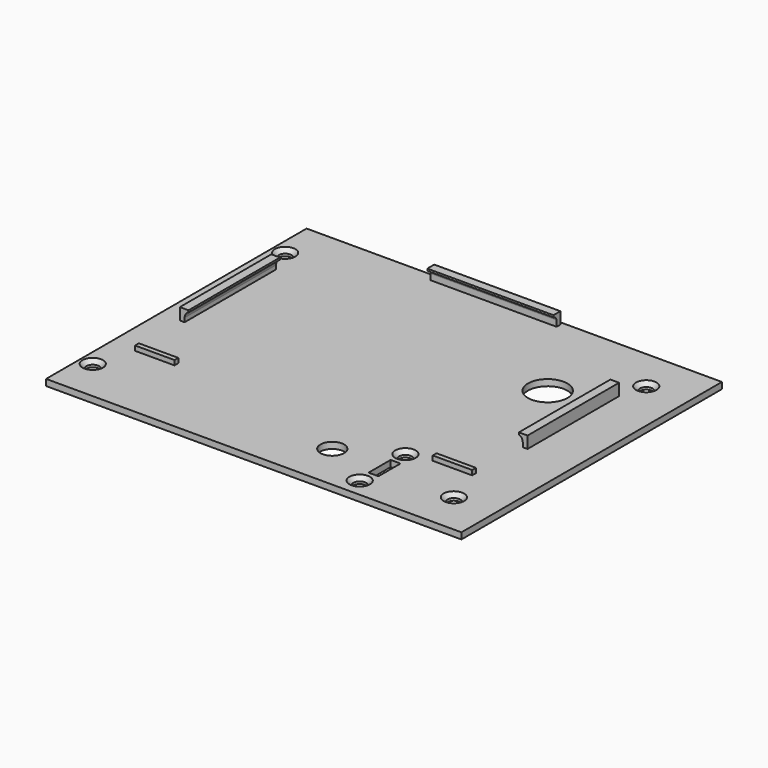
from build123d import *

# Parameters (mm, degrees)
F0_W      = 105.35
F0_H      = 82.6
F0_R      = 1.6
F3_DEPTH  = 1.6
F1_R      = 5
F4_DEPTH  = 1.601
F2_R      = 1.6
F2_R_2    = 3
F2_W      = 2.5
F2_H      = 7
F5_DEPTH  = 1.601
F7_START  = -36.1
F7_DEPTH  = 29
F9_START  = 33
F9_DEPTH  = 32
F1_W      = 10
F1_H      = 1.2
F10_DEPTH = 1.2
F11_SIZE  = 1


with BuildPart() as f3:
    # F0 (on Top) → F3 (new body)
    with BuildSketch(Plane.XY):
        with Locations((52.675, 41.3)):
            Rectangle(F0_W, F0_H)
        with Locations((3.2, 10.8)):
            Circle(F0_R, mode=Mode.SUBTRACT)
        with Locations((94.8, 10.8)):
            Circle(F0_R, mode=Mode.SUBTRACT)
        with Locations((3.2, 71.8)):
            Circle(F0_R, mode=Mode.SUBTRACT)
        with Locations((94.8, 71.8)):
            Circle(F0_R, mode=Mode.SUBTRACT)
    extrude(amount=-F3_DEPTH)

    # F1 (on face) → F4 (cut, through all)
    with BuildSketch(Plane.XY):
        with Locations((80.75, 58.1)):
            Circle(F1_R)
    extrude(amount=-F4_DEPTH, mode=Mode.SUBTRACT)

    # F2 (on face) → F5 (cut, through all)
    with BuildSketch(Plane.XY):
        with Locations((75.75, 4.75)):
            Circle(F2_R)
        with Locations((63, 12)):
            Circle(F2_R_2)
        with Locations((76.25, 12)):
            Rectangle(F2_W, F2_H)
        with Locations((75.75, 19.25)):
            Circle(F2_R)
    extrude(amount=-F5_DEPTH, mode=Mode.SUBTRACT)

    # F6 (on Front) → F7 (join)
    with BuildSketch(Plane.XZ.offset(F7_START)):
        with BuildLine():
            add(Edge.make_bspline(
                [(6.25, 0.9831411553), (6.1998556443, 0.4976120788), (6.25, 0.0696883488), (6.25, 0)],
                knots=[1.5113210061, 1.5113210061, 1.5113210061, 1.5113210061, 2.6925824036, 2.6925824036, 2.6925824036, 2.6925824036], degree=3))
            Line((6.25, 0), (6.25, 0.9831411553))
        make_face()
        with BuildLine():
            Line((5.05, 0), (6.25, 0))
            add(Edge.make_bspline(
                [(6.25, 0.9831411553), (6.1998556443, 0.4976120788), (6.25, 0.0696883488), (6.25, 0)],
                knots=[1.5113210061, 1.5113210061, 1.5113210061, 1.5113210061, 2.6925824036, 2.6925824036, 2.6925824036, 2.6925824036], degree=3))
            Line((6.25, 0.9831411553), (6.25, 3))
            Line((6.25, 3), (5.05, 3))
            Line((5.05, 3), (5.05, 0))
        make_face()
        with BuildLine():
            Line((6.25, 3), (6.25, 0.9831411553))
            add(Edge.make_bspline(
                [(7.25, 2.5), (6.5424729796, 2.3198194624), (6.3141553328, 1.6043332928), (6.25, 0.9831411553)],
                knots=[0, 0, 0, 0, 1.5113210061, 1.5113210061, 1.5113210061, 1.5113210061], degree=3))
            Line((7.25, 2.5), (7.25, 3))
            Line((7.25, 3), (6.25, 3))
        make_face()
        with BuildLine():
            Line((92.05, 0.9831411553), (92.05, 3))
            Line((92.05, 3), (91.05, 3))
            Line((91.05, 3), (91.05, 2.5))
            add(Edge.make_bspline(
                [(91.05, 2.5), (91.7575270204, 2.3198194624), (91.9858446672, 1.6043332928), (92.05, 0.9831411553)],
                knots=[0, 0, 0, 0, 1.5113210061, 1.5113210061, 1.5113210061, 1.5113210061], degree=3))
        make_face()
        with BuildLine():
            Line((93.25, 3), (92.05, 3))
            Line((92.05, 3), (92.05, 0.9831411553))
            add(Edge.make_bspline(
                [(92.05, 0.9831411553), (92.1001443557, 0.4976120788), (92.05, 0.0696883488), (92.05, 0)],
                knots=[1.5113210061, 1.5113210061, 1.5113210061, 1.5113210061, 2.6925824036, 2.6925824036, 2.6925824036, 2.6925824036], degree=3))
            Line((92.05, 0), (93.25, 0))
            Line((93.25, 0), (93.25, 3))
        make_face()
        with BuildLine():
            add(Edge.make_bspline(
                [(92.05, 0.9831411553), (92.1001443557, 0.4976120788), (92.05, 0.0696883488), (92.05, 0)],
                knots=[1.5113210061, 1.5113210061, 1.5113210061, 1.5113210061, 2.6925824036, 2.6925824036, 2.6925824036, 2.6925824036], degree=3))
            Line((92.05, 0.9831411553), (92.05, 0))
        make_face()
    extrude(amount=-F7_DEPTH)

    # F8 (on Right) → F9 (join)
    with BuildSketch(Plane.YZ.offset(F9_START)):
        with BuildLine():
            add(Edge.make_bspline(
                [(80.6190222502, 1.5), (80.7199138112, 0.9911874772), (80.6190222502, 0.2993458475), (80.6190222502, 0)],
                knots=[0.4926390921, 0.4926390921, 0.4926390921, 0.4926390921, 1, 1, 1, 1], degree=3))
            Line((80.6190222502, 0), (81.8190222502, 0))
            Line((81.8190222502, 0), (81.8190222502, 3))
            Line((81.8190222502, 3), (80.6190222502, 3))
            Line((80.6190222502, 3), (80.6190222502, 1.5))
        make_face()
        with BuildLine():
            Line((80.6190222502, 1.5), (80.6190222502, 0))
            add(Edge.make_bspline(
                [(80.6190222502, 1.5), (80.7199138112, 0.9911874772), (80.6190222502, 0.2993458475), (80.6190222502, 0)],
                knots=[0.4926390921, 0.4926390921, 0.4926390921, 0.4926390921, 1, 1, 1, 1], degree=3))
        make_face()
        with BuildLine():
            add(Edge.make_bspline(
                [(79.6190222502, 2.5), (80.2328512073, 2.3155356757), (80.5210582047, 1.9940485863), (80.6190222502, 1.5)],
                knots=[0, 0, 0, 0, 0.4926390921, 0.4926390921, 0.4926390921, 0.4926390921], degree=3))
            Line((80.6190222502, 1.5), (80.6190222502, 3))
            Line((80.6190222502, 3), (79.6190222502, 3))
            Line((79.6190222502, 3), (79.6190222502, 2.5))
        make_face()
    extrude(amount=F9_DEPTH)

    # F1 (on face) → F10 (join)
    with BuildSketch(Plane.XY):
        with Locations((11.25, 21)):
            Rectangle(F1_W, F1_H)
        with Locations((86.75, 21)):
            Rectangle(F1_W, F1_H)
    extrude(amount=F10_DEPTH)

    # F11
    f11_edges = [f3.edges().sort_by_distance(p)[0] for p in [
        (1.6, 71.8, 0),
        (93.2, 71.8, 0),
        (93.2, 10.8, 0),
        (74.15, 19.25, 0),
        (74.15, 4.75, 0),
        (1.6, 10.8, 0),
    ]]
    chamfer(f11_edges, length=F11_SIZE)


solid = f3.part
